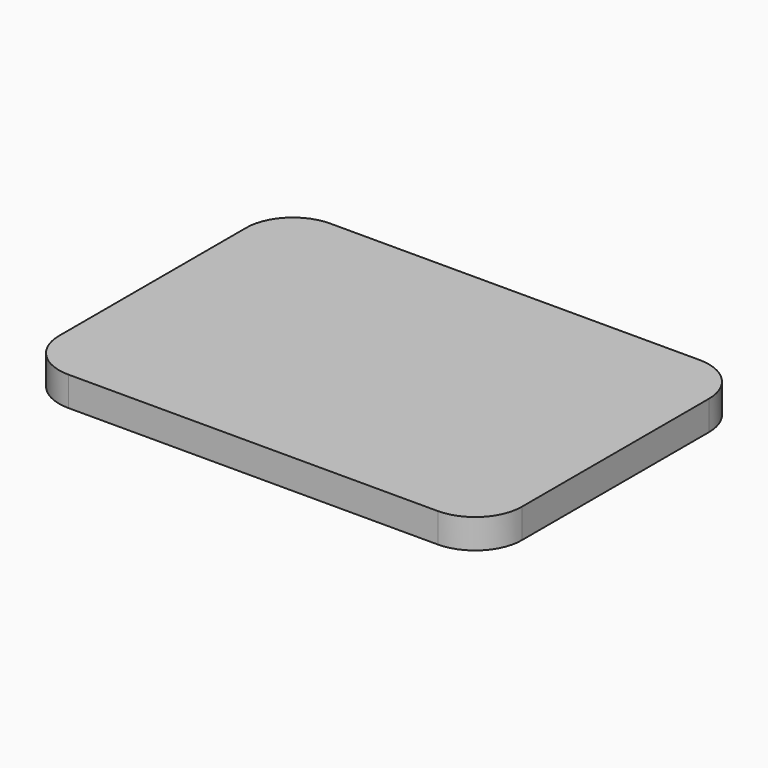
from build123d import *

# Parameters (mm, degrees)
PAD_DEPTH = 1.6


with BuildPart() as part:
    # Sketch → Pad (new body)
    with BuildSketch(Plane.XY):
        with BuildLine():
            Line((2.54, 17.78), (22.606, 17.78))
            ThreePointArc((25.146, 15.24), (24.402051, 17.036051), (22.606, 17.78))
            Line((25.146, 15.24), (25.146, 2.54))
            ThreePointArc((22.606, 0), (24.402051, 0.743949), (25.146, 2.54))
            Line((22.606, 0), (2.54, 0))
            ThreePointArc((0, 2.54), (0.743949, 0.743949), (2.54, 0))
            Line((0, 2.54), (0, 15.24))
            ThreePointArc((2.54, 17.78), (0.743949, 17.036051), (0, 15.24))
        make_face()
    extrude(amount=PAD_DEPTH)


solid = part.part
